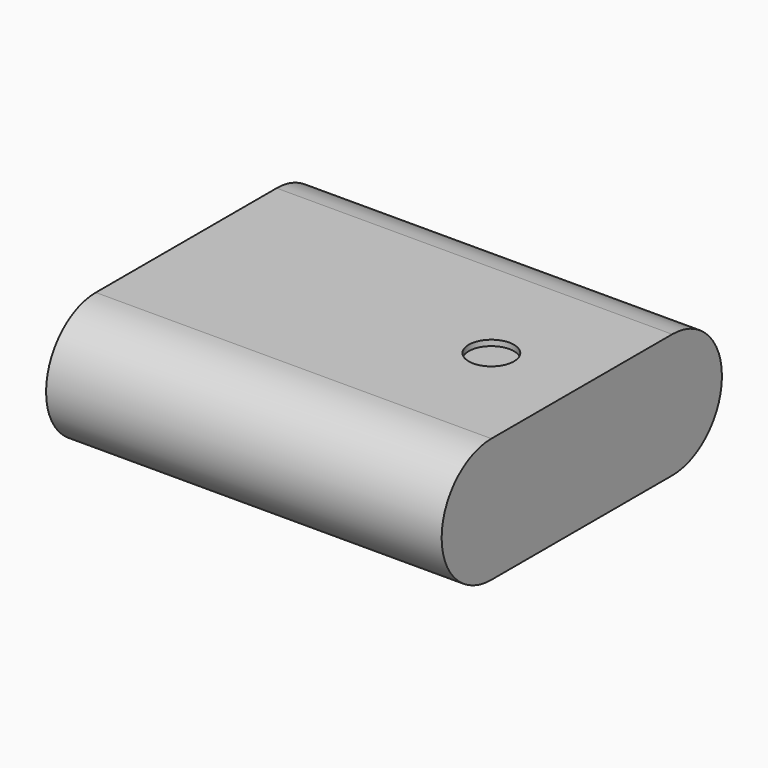
from build123d import *

# Parameters (mm, degrees)
CYLINDER002001001002003_R           = 4
CYLINDER002001001002003_DEPTH       = 2
BOX001002001003003_W                = 15
BOX001002001003003_H                = 13
BOX001002001003003_DEPTH            = 6
BOX001001001_W                      = 15
BOX001001001_H                      = 13
BOX001001001_DEPTH                  = 6
BOX001002001003002_W                = 70
BOX001002001003002_H                = 40
BOX001002001003002_DEPTH            = 22
CYLINDER002001001002002_R           = 11
CYLINDER002001001002002_DEPTH       = 70
CYLINDER002001001002002_PITCH_ANGLE = 90
CYLINDER001_R                       = 11
CYLINDER001_DEPTH                   = 70
CYLINDER001_PITCH_ANGLE             = 90
CUT_PLACEMENT_ANGLE                 = 180


with BuildPart() as powerbutton:
    # Cylinder002001001002003 → Cylinder002001001002003 (new body)
    with BuildSketch(Plane(origin=(16, 20, 10), x_dir=(1, 0, 0), z_dir=(0, 0, 1))):
        Circle(CYLINDER002001001002003_R)
    extrude(amount=CYLINDER002001001002003_DEPTH)


with BuildPart() as usb1:
    # Box001002001003003 → Box001002001003003 (new body)
    with BuildSketch(Plane(origin=(60, 13.5, -1), x_dir=(1, 0, 0), z_dir=(0, 0, 1))):
        with Locations((7.5, 6.5)):
            Rectangle(BOX001002001003003_W, BOX001002001003003_H)
    extrude(amount=BOX001002001003003_DEPTH)


with BuildPart() as fusion001001:
    # Box001001001 → Box001001001 (new body)
    with BuildSketch(Plane(origin=(60, 13.5, -10), x_dir=(1, 0, 0), z_dir=(0, 0, 1))):
        with Locations((7.5, 6.5)):
            Rectangle(BOX001001001_W, BOX001001001_H)
    extrude(amount=BOX001001001_DEPTH)

    # Fusion001001: union PowerButton, USB1
    add(powerbutton.part)
    add(usb1.part)


with BuildPart() as box001002001003002:
    # Box001002001003002 → Box001002001003002 (new body)
    with BuildSketch(Plane.XY.offset(-11)):
        with Locations((35, 20)):
            Rectangle(BOX001002001003002_W, BOX001002001003002_H)
    extrude(amount=BOX001002001003002_DEPTH)


with BuildPart() as cylinder002001001002002:
    # Cylinder002001001002002 → Cylinder002001001002002 (new body)
    with BuildSketch(Plane.XY):
        Circle(CYLINDER002001001002002_R)
    extrude(amount=CYLINDER002001001002002_DEPTH)


with BuildPart() as cylinder002001001002002_1:
    # Cylinder002001001002002 pitch: moved
    add(cylinder002001001002002.part.rotate(Axis((0, 0, 0), (0, 1, 0)), CYLINDER002001001002002_PITCH_ANGLE))


with BuildPart() as cylinder002001001002002_2:
    # Cylinder002001001002002 placement: moved
    add(cylinder002001001002002_1.part)


with BuildPart() as obj1:
    # Cylinder001 → Cylinder001 (new body)
    with BuildSketch(Plane.XY):
        Circle(CYLINDER001_R)
    extrude(amount=CYLINDER001_DEPTH)


with BuildPart() as obj1_1:
    # Cylinder001 pitch: moved
    add(obj1.part.rotate(Axis((0, 0, 0), (0, 1, 0)), CYLINDER001_PITCH_ANGLE))


with BuildPart() as obj1_2:
    # Cylinder001 placement: moved
    add(obj1_1.part.moved(Location((0, 40, 0))))

    # Fusion002001002002002001002: union Box001002001003002, Cylinder002001001002002
    add(box001002001003002.part)
    add(cylinder002001001002002_2.part)

    # Cut: cut Fusion001001
    add(fusion001001.part, mode=Mode.SUBTRACT)


with BuildPart() as obj1_3:
    # Cut placement: moved
    add(obj1_2.part.moved(Location((142, 50, 19))).rotate(Axis((142, 50, 19), (0, 0, 1)), CUT_PLACEMENT_ANGLE))


solid = obj1_3.part
